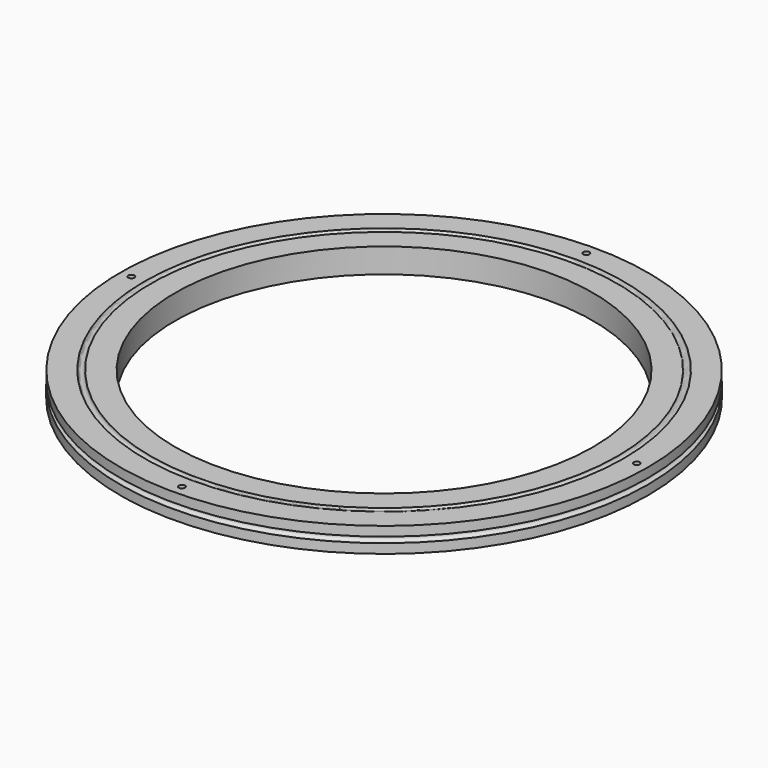
from build123d import *

# Parameters (mm, degrees)
F2_R     = 2.5
F3_DEPTH = 20.001
F5_DEPTH = 10


with BuildPart() as f1:
    # F0 (on Front) → F1 (revolve)
    with BuildSketch(Plane.XZ):
        with BuildLine():
            Line((190.006552, 20), (170, 20))
            Line((170, 20), (170, 0))
            Line((170, 0), (214.8, 0))
            Line((214.8, 0), (214.8, 7.712634))
            ThreePointArc((214.8, 7.712634), (211.221192, 9.885893), (214.651039, 12.287366))
            Line((214.651039, 12.287366), (214.651039, 20))
            Line((214.651039, 20), (195, 20))
            ThreePointArc((195, 20), (192.503276, 17.372054), (190.006552, 20))
        make_face()
    revolve(axis=Axis((0, 0, 35.473917), (0, 0, 1)))

    # F2 (on face) → F3 (cut, through all)
    with BuildSketch(Plane.XY.offset(20)):
        with Locations((205.651039, 0)):
            Circle(F2_R)
        with Locations((0, 205.8)):
            Circle(F2_R)
        with Locations((-205.651039, 0)):
            Circle(F2_R)
        with Locations((0, -205.651039)):
            Circle(F2_R)
    extrude(amount=-F3_DEPTH, mode=Mode.SUBTRACT)

    # F4 (on face) → F5 (cut)
    with BuildSketch(Plane(origin=(0, 0, 0), x_dir=(1, 0, 0), z_dir=(0, 0, -1))):
        Polygon((209.551039, -2.027116), (209.551039, 2.476216), (205.651039, 4.727882), (201.751039, 2.476216), (201.751039, -2.027116), (205.651039, -4.278782), align=None)
        Polygon((-205.651039, 4.727882), (-209.551039, 2.476216), (-209.551039, -2.027116), (-205.651039, -4.278782), (-201.751039, -2.027116), (-201.751039, 2.476216), align=None)
        Polygon((3.9, -208.023054), (3.9, -203.519163), (0, -201.32528), (-3.9, -203.519163), (-3.9, -208.080837), (0, -210.27472), align=None)
        Polygon((3.9, 208.023054), (0, 210.27472), (-3.9, 208.080837), (-3.9, 203.519163), (0, 201.32528), (3.9, 203.519163), align=None)
    extrude(amount=-F5_DEPTH, mode=Mode.SUBTRACT)


solid = f1.part
